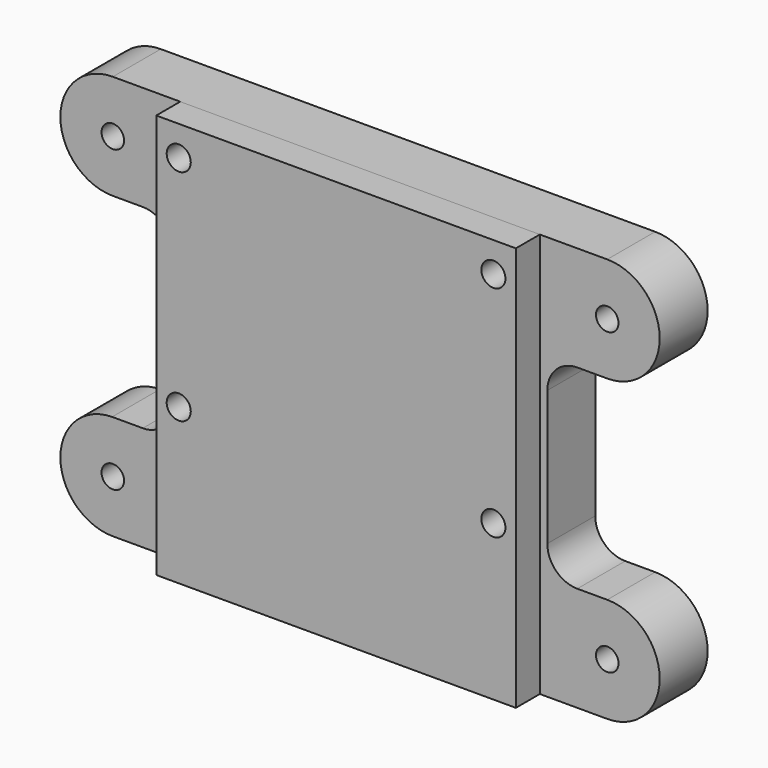
from build123d import *

# Parameters (mm, degrees)
F1_DEPTH       = 12.7
F2_R           = 6.35
F4_DEPTH       = 6.35
F6_D           = 4.7752
F8_D           = 5.1054
F8_CBORE_D     = 9.4742
F8_CBORE_DEPTH = 4.826


with BuildPart() as f1:
    # F0 (on Front) → F1 (new body)
    with BuildSketch(Plane.XZ):
        with BuildLine():
            Line((52.387601, 42.861543), (-52.387399, 42.8625))
            ThreePointArc((-52.387399, 42.8625), (-63.5, 31.750051), (-52.3875, 20.6375))
            Line((-52.3875, 20.6375), (-39.6875, 20.6375))
            Line((-39.6875, 20.6375), (-39.6875, -20.6375))
            Line((-39.6875, -20.6375), (-52.533336, -20.6375))
            ThreePointArc((-52.533336, -20.6375), (-63.499761, -31.821912), (-52.387601, -42.861543))
            Line((-52.387601, -42.861543), (52.387399, -42.8625))
            ThreePointArc((52.387399, -42.8625), (63.5, -31.750051), (52.3875, -20.6375))
            Line((52.3875, -20.6375), (39.6875, -20.6375))
            Line((39.6875, -20.6375), (39.6875, 20.6375))
            Line((39.6875, 20.6375), (52.533336, 20.6375))
            ThreePointArc((52.533336, 20.6375), (63.499761, 31.821912), (52.387601, 42.861543))
        make_face()
    extrude(amount=F1_DEPTH)

    # F2
    f2_edges = [f1.edges().sort_by_distance(p)[0] for p in [
        (-39.6875, -6.35, 20.6375),
        (-39.6875, -6.35, -20.6375),
        (39.6875, -6.35, 20.6375),
        (39.6875, -6.35, -20.6375),
    ]]
    fillet(f2_edges, radius=F2_R)

    # F3 (on face) → F4 (join)
    with BuildSketch(Plane.XZ.offset(12.7)):
        Polygon((-38.1, -42.861674), (38.1, -42.86237), (38.1, 42.861674), (-38.1, 42.86237), align=None)
        Polygon((-38.1, 42.86237), (38.1, 42.861674), (38.1, 42.8625), (-38.1, 42.8625), align=None)
    extrude(amount=F4_DEPTH)

    # F6 (through all)
    with Locations(Plane.XZ.offset(12.7)):
        with Locations((-52.3875, 31.75), (52.3875, 31.75), (52.3875, -31.7373), (-52.3875, -31.7373)):
            Hole(F6_D / 2)

    # F8 (through all)
    with Locations(Plane(origin=(0, 0, 0), x_dir=(-1, 0, 0), z_dir=(0, 1, 0))):
        with Locations((-33.3375, 36.487274), (33.3375, 36.487883), (33.3375, -9.968717), (-33.3375, -9.969326)):
            CounterBoreHole(F8_D / 2, F8_CBORE_D / 2, F8_CBORE_DEPTH)


solid = f1.part
